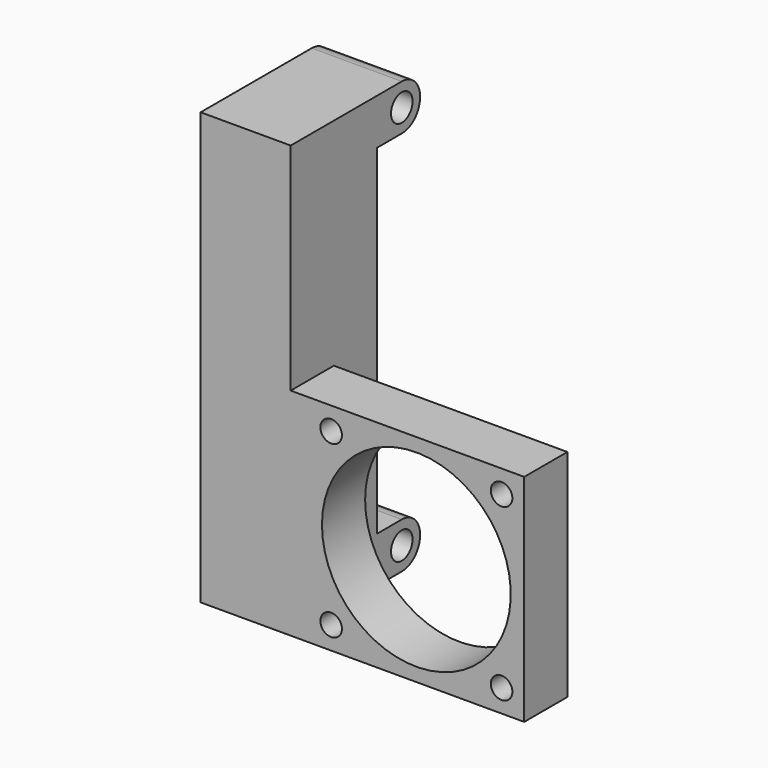
from build123d import *

# Parameters (mm, degrees)
F1_DEPTH = 40
F0_W     = 16.7
F0_H     = 20
F2_DEPTH = 80
F3_R     = 2
F3_R_2   = 17.5
F4_DEPTH = 10.001
F5_R     = 2.5
F6_DEPTH = 60.001
F7_W     = 16.7
F7_H     = 10
F8_DEPTH = 40


with BuildPart() as f1:
    # F0 (on Top) → F1 (new body)
    with BuildSketch(Plane.XY):
        Polygon((-15.8, 10), (-20, 10), (-20, 0), (20, 0), (20, 10), (15.8, 10), align=None)
        Polygon((-23.3, 10), (-40, 10), (-40, 0), (-20, 0), (-20, 10), align=None)
    extrude(amount=F1_DEPTH)

    # F0 (on Top) → F2 (join)
    with BuildSketch(Plane.XY):
        with Locations((-31.65, 20)):
            Rectangle(F0_W, F0_H)
    extrude(amount=F2_DEPTH)

    # F3 (on face) → F4 (cut, through all)
    with BuildSketch(Plane(origin=(0, 10, 0), x_dir=(-1, 0, 0), z_dir=(0, 1, 0))):
        with Locations((-15.8, 4.2)):
            Circle(F3_R)
        with Locations((-15.8, 35.8)):
            Circle(F3_R)
        with Locations((15.8, 35.8)):
            Circle(F3_R)
        with Locations((15.8, 4.2)):
            Circle(F3_R)
        with Locations((0, 20)):
            Circle(F3_R_2)
    extrude(amount=-F4_DEPTH, mode=Mode.SUBTRACT)

    # F5 (on face) → F6 (cut, through all)
    with BuildSketch(Plane(origin=(-40, 0, 0), x_dir=(0, -1, 0), z_dir=(-1, 0, 0))):
        with Locations((-25.75, 75.75)):
            Circle(F5_R)
        with BuildLine():
            Line((-30, 80), (-30, 75.75))
            ThreePointArc((-30, 75.75), (-28.75520382, 78.75520382), (-25.75, 80))
            Line((-25.75, 80), (-30, 80))
        make_face()
        with BuildLine():
            Line((-20, 71.5), (-25.75, 71.5))
            ThreePointArc((-25.75, 71.5), (-28.75520382, 72.74479618), (-30, 75.75))
            Line((-30, 75.75), (-30, 4.2499999975))
            ThreePointArc((-30, 4.2499999975), (-28.7552038209, 7.2552038191), (-25.75, 8.5))
            Line((-25.75, 8.5), (-20, 8.5))
            Line((-20, 8.5), (-20, 71.5))
        make_face()
        with BuildLine():
            ThreePointArc((-25.75, 0), (-28.7552038191, 1.2447961791), (-30, 4.2499999975))
            Line((-30, 4.2499999975), (-30, 0))
            Line((-30, 0), (-25.75, 0))
        make_face()
        with Locations((-25.75, 4.25)):
            Circle(F5_R)
    extrude(amount=-F6_DEPTH, mode=Mode.SUBTRACT)

    # F7 (on face) → F8 (join, through all)
    with BuildSketch(Plane.XY.offset(40)):
        with Locations((-31.65, 5)):
            Rectangle(F7_W, F7_H)
    extrude(amount=F8_DEPTH)


solid = f1.part
